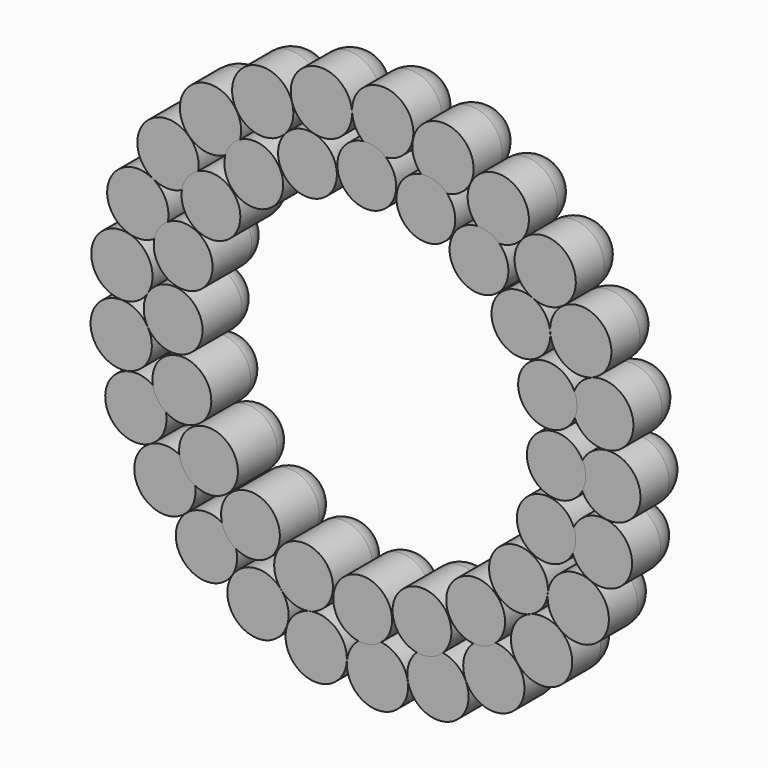
from build123d import *

# Parameters (mm, degrees)
F0_R     = 3.175
F1_DEPTH = 6.858
F2_COUNT = 25
F3_R     = 3.048
F4_DEPTH = 7.62
F5_COUNT = 20
F6_R     = 3.175
F6_2_R   = 3.175
F6_3_R   = 3.175
F6_4_R   = 3.175
F6_5_R   = 3.175
F6_6_R   = 3.175
F6_7_R   = 3.175
F6_8_R   = 3.175
F6_9_R   = 3.175
F6_10_R  = 3.175
F6_11_R  = 3.175
F6_12_R  = 3.175
F6_13_R  = 3.175
F6_14_R  = 3.175
F6_15_R  = 3.175
F6_16_R  = 3.175
F6_17_R  = 3.175
F6_18_R  = 3.175
F6_19_R  = 3.175
F6_20_R  = 3.175
F6_21_R  = 3.175
F6_22_R  = 3.175
F6_23_R  = 3.175
F6_24_R  = 3.175
F6_25_R  = 3.175
F7_R     = 2.54
F7_2_R   = 2.54
F7_3_R   = 2.54
F7_4_R   = 2.54
F7_5_R   = 2.54
F7_6_R   = 2.54
F7_7_R   = 2.54
F7_8_R   = 2.54
F7_9_R   = 2.54
F7_10_R  = 2.54
F7_11_R  = 2.54
F7_12_R  = 2.54
F7_13_R  = 2.54
F7_14_R  = 2.54
F7_15_R  = 2.54
F7_16_R  = 2.54
F7_17_R  = 2.54
F7_18_R  = 2.54
F7_19_R  = 2.54
F7_20_R  = 2.54


with BuildPart() as f1:
    # F0 (on Front) → F1 (new body)
    with BuildSketch(Plane.XZ):
        with Locations((-10.5681954611, 23.0970397388)):
            Circle(F0_R)
    extrude(amount=-F1_DEPTH)


with BuildPart() as f2_1:
    # F2: instance of F1
    add(f1.part.rotate(Axis((0, 0, 0), (0, 1, 0)), 1 * 360 / F2_COUNT))

    # F6#22
    f6_22_edges = [f2_1.edges().sort_by_distance(p)[0] for p in [
        (-7.567427, 6.858, 25.789197),
    ]]
    fillet(f6_22_edges, radius=F6_22_R)


with BuildPart() as f2_2:
    # F2: instance of F1
    add(f1.part.rotate(Axis((0, 0, 0), (0, 1, 0)), 2 * 360 / F2_COUNT))

    # F6#21
    f6_21_edges = [f2_2.edges().sort_by_distance(p)[0] for p in [
        (-0.91617, 6.858, 26.860925),
    ]]
    fillet(f6_21_edges, radius=F6_21_R)


with BuildPart() as f2_3:
    # F2: instance of F1
    add(f1.part.rotate(Axis((0, 0, 0), (0, 1, 0)), 3 * 360 / F2_COUNT))

    # F6#20
    f6_20_edges = [f2_3.edges().sort_by_distance(p)[0] for p in [
        (5.792653, 6.858, 26.244882),
    ]]
    fillet(f6_20_edges, radius=F6_20_R)


with BuildPart() as f2_4:
    # F2: instance of F1
    add(f1.part.rotate(Axis((0, 0, 0), (0, 1, 0)), 4 * 360 / F2_COUNT))

    # F6#19
    f6_19_edges = [f2_4.edges().sort_by_distance(p)[0] for p in [
        (12.137503, 6.858, 23.979776),
    ]]
    fillet(f6_19_edges, radius=F6_19_R)


with BuildPart() as f2_5:
    # F2: instance of F1
    add(f1.part.rotate(Axis((0, 0, 0), (0, 1, 0)), 5 * 360 / F2_COUNT))

    # F6#18
    f6_18_edges = [f2_5.edges().sort_by_distance(p)[0] for p in [
        (17.719709, 6.858, 20.207933),
    ]]
    fillet(f6_18_edges, radius=F6_18_R)


with BuildPart() as f2_6:
    # F2: instance of F1
    add(f1.part.rotate(Axis((0, 0, 0), (0, 1, 0)), 6 * 360 / F2_COUNT))

    # F6#4
    f6_4_edges = [f2_6.edges().sort_by_distance(p)[0] for p in [
        (22.188521, 6.858, 15.166352),
    ]]
    fillet(f6_4_edges, radius=F6_4_R)


with BuildPart() as f2_7:
    # F2: instance of F1
    add(f1.part.rotate(Axis((0, 0, 0), (0, 1, 0)), 7 * 360 / F2_COUNT))

    # F6#17
    f6_17_edges = [f2_7.edges().sort_by_distance(p)[0] for p in [
        (25.263146, 6.858, 9.171812),
    ]]
    fillet(f6_17_edges, radius=F6_17_R)


with BuildPart() as f2_8:
    # F2: instance of F1
    add(f1.part.rotate(Axis((0, 0, 0), (0, 1, 0)), 8 * 360 / F2_COUNT))

    # F6#16
    f6_16_edges = [f2_8.edges().sort_by_distance(p)[0] for p in [
        (26.750394, 6.858, 2.600974),
    ]]
    fillet(f6_16_edges, radius=F6_16_R)


with BuildPart() as f2_9:
    # F2: instance of F1
    add(f1.part.rotate(Axis((0, 0, 0), (0, 1, 0)), 9 * 360 / F2_COUNT))

    # F6#3
    f6_3_edges = [f2_9.edges().sort_by_distance(p)[0] for p in [
        (26.556817, 6.858, -4.133293),
    ]]
    fillet(f6_3_edges, radius=F6_3_R)


with BuildPart() as f2_10:
    # F2: instance of F1
    add(f1.part.rotate(Axis((0, 0, 0), (0, 1, 0)), 10 * 360 / F2_COUNT))

    # F6#2
    f6_2_edges = [f2_10.edges().sort_by_distance(p)[0] for p in [
        (24.694578, 6.858, -10.60785),
    ]]
    fillet(f6_2_edges, radius=F6_2_R)


with BuildPart() as f2_11:
    # F2: instance of F1
    add(f1.part.rotate(Axis((0, 0, 0), (0, 1, 0)), 11 * 360 / F2_COUNT))

    # F6
    f6_edges = [f2_11.edges().sort_by_distance(p)[0] for p in [
        (21.280687, 6.858, -16.415877),
    ]]
    fillet(f6_edges, radius=F6_R)


with BuildPart() as f2_12:
    # F2: instance of F1
    add(f1.part.rotate(Axis((0, 0, 0), (0, 1, 0)), 12 * 360 / F2_COUNT))

    # F6#6
    f6_6_edges = [f2_12.edges().sort_by_distance(p)[0] for p in [
        (16.529653, 6.858, -21.192434),
    ]]
    fillet(f6_6_edges, radius=F6_6_R)


with BuildPart() as f2_13:
    # F2: instance of F1
    add(f1.part.rotate(Axis((0, 0, 0), (0, 1, 0)), 13 * 360 / F2_COUNT))

    # F6#5
    f6_5_edges = [f2_13.edges().sort_by_distance(p)[0] for p in [
        (10.74, 6.858, -24.637392),
    ]]
    fillet(f6_5_edges, radius=F6_5_R)


with BuildPart() as f2_14:
    # F2: instance of F1
    add(f1.part.rotate(Axis((0, 0, 0), (0, 1, 0)), 14 * 360 / F2_COUNT))

    # F6#7
    f6_7_edges = [f2_14.edges().sort_by_distance(p)[0] for p in [
        (4.275513, 6.858, -26.534292),
    ]]
    fillet(f6_7_edges, radius=F6_7_R)


with BuildPart() as f2_15:
    # F2: instance of F1
    add(f1.part.rotate(Axis((0, 0, 0), (0, 1, 0)), 15 * 360 / F2_COUNT))

    # F6#8
    f6_8_edges = [f2_15.edges().sort_by_distance(p)[0] for p in [
        (-2.457621, 6.858, -26.763945),
    ]]
    fillet(f6_8_edges, radius=F6_8_R)


with BuildPart() as f2_16:
    # F2: instance of F1
    add(f1.part.rotate(Axis((0, 0, 0), (0, 1, 0)), 16 * 360 / F2_COUNT))

    # F6#9
    f6_9_edges = [f2_16.edges().sort_by_distance(p)[0] for p in [
        (-9.036333, 6.858, -25.311921),
    ]]
    fillet(f6_9_edges, radius=F6_9_R)


with BuildPart() as f2_17:
    # F2: instance of F1
    add(f1.part.rotate(Axis((0, 0, 0), (0, 1, 0)), 17 * 360 / F2_COUNT))

    # F6#10
    f6_10_edges = [f2_17.edges().sort_by_distance(p)[0] for p in [
        (-15.047258, 6.858, -22.269456),
    ]]
    fillet(f6_10_edges, radius=F6_10_R)


with BuildPart() as f2_18:
    # F2: instance of F1
    add(f1.part.rotate(Axis((0, 0, 0), (0, 1, 0)), 18 * 360 / F2_COUNT))

    # F6#11
    f6_11_edges = [f2_18.edges().sort_by_distance(p)[0] for p in [
        (-20.11271, 6.858, -17.827719),
    ]]
    fillet(f6_11_edges, radius=F6_11_R)


with BuildPart() as f2_19:
    # F2: instance of F1
    add(f1.part.rotate(Axis((0, 0, 0), (0, 1, 0)), 19 * 360 / F2_COUNT))

    # F6#12
    f6_12_edges = [f2_19.edges().sort_by_distance(p)[0] for p in [
        (-23.914405, 6.858, -12.265801),
    ]]
    fillet(f6_12_edges, radius=F6_12_R)


with BuildPart() as f2_20:
    # F2: instance of F1
    add(f1.part.rotate(Axis((0, 0, 0), (0, 1, 0)), 20 * 360 / F2_COUNT))

    # F6#13
    f6_13_edges = [f2_20.edges().sort_by_distance(p)[0] for p in [
        (-26.213471, 6.858, -5.933178),
    ]]
    fillet(f6_13_edges, radius=F6_13_R)


with BuildPart() as f2_21:
    # F2: instance of F1
    add(f1.part.rotate(Axis((0, 0, 0), (0, 1, 0)), 21 * 360 / F2_COUNT))

    # F6#14
    f6_14_edges = [f2_21.edges().sort_by_distance(p)[0] for p in [
        (-26.865448, 6.858, 0.772249),
    ]]
    fillet(f6_14_edges, radius=F6_14_R)


with BuildPart() as f2_22:
    # F2: instance of F1
    add(f1.part.rotate(Axis((0, 0, 0), (0, 1, 0)), 22 * 360 / F2_COUNT))

    # F6#15
    f6_15_edges = [f2_22.edges().sort_by_distance(p)[0] for p in [
        (-25.82937, 6.858, 7.429153),
    ]]
    fillet(f6_15_edges, radius=F6_15_R)


with BuildPart() as f2_23:
    # F2: instance of F1
    add(f1.part.rotate(Axis((0, 0, 0), (0, 1, 0)), 23 * 360 / F2_COUNT))

    # F6#25
    f6_25_edges = [f2_23.edges().sort_by_distance(p)[0] for p in [
        (-23.170338, 6.858, 13.619255),
    ]]
    fillet(f6_25_edges, radius=F6_25_R)


with BuildPart() as f2_24:
    # F2: instance of F1
    add(f1.part.rotate(Axis((0, 0, 0), (0, 1, 0)), 24 * 360 / F2_COUNT))

    # F6#24
    f6_24_edges = [f2_24.edges().sort_by_distance(p)[0] for p in [
        (-19.055428, 6.858, 18.95361),
    ]]
    fillet(f6_24_edges, radius=F6_24_R)


with BuildPart() as f4:
    # F3 (on Front) → F4 (new body)
    with BuildSketch(Plane.XZ):
        with Locations((-5.9323691306, 18.9455528686)):
            Circle(F3_R)
    extrude(amount=-F4_DEPTH)


with BuildPart() as f5_1:
    # F5: instance of F4
    add(f4.part.rotate(Axis((0, 0, 0), (0, -1, 0)), 1 * 360 / F5_COUNT))

    # F7#15
    f7_15_edges = [f5_1.edges().sort_by_distance(p)[0] for p in [
        (-14.395336, 7.62, 15.243205),
    ]]
    fillet(f7_15_edges, radius=F7_15_R)


with BuildPart() as f5_2:
    # F5: instance of F4
    add(f4.part.rotate(Axis((0, 0, 0), (0, -1, 0)), 2 * 360 / F5_COUNT))

    # F7#14
    f7_14_edges = [f5_2.edges().sort_by_distance(p)[0] for p in [
        (-18.401188, 7.62, 10.048746),
    ]]
    fillet(f7_14_edges, radius=F7_14_R)


with BuildPart() as f5_3:
    # F5: instance of F4
    add(f4.part.rotate(Axis((0, 0, 0), (0, -1, 0)), 3 * 360 / F5_COUNT))

    # F7#13
    f7_13_edges = [f5_3.edges().sort_by_distance(p)[0] for p in [
        (-20.605803, 7.62, 3.870645),
    ]]
    fillet(f7_13_edges, radius=F7_13_R)


with BuildPart() as f5_4:
    # F5: instance of F4
    add(f4.part.rotate(Axis((0, 0, 0), (0, -1, 0)), 4 * 360 / F5_COUNT))

    # F7#12
    f7_12_edges = [f5_4.edges().sort_by_distance(p)[0] for p in [
        (-20.793378, 7.62, -2.686341),
    ]]
    fillet(f7_12_edges, radius=F7_12_R)


with BuildPart() as f5_5:
    # F5: instance of F4
    add(f4.part.rotate(Axis((0, 0, 0), (0, -1, 0)), 5 * 360 / F5_COUNT))

    # F7#11
    f7_11_edges = [f5_5.edges().sort_by_distance(p)[0] for p in [
        (-18.945553, 7.62, -8.980369),
    ]]
    fillet(f7_11_edges, radius=F7_11_R)


with BuildPart() as f5_6:
    # F5: instance of F4
    add(f4.part.rotate(Axis((0, 0, 0), (0, -1, 0)), 6 * 360 / F5_COUNT))

    # F7#10
    f7_10_edges = [f5_6.edges().sort_by_distance(p)[0] for p in [
        (-15.243205, 7.62, -14.395336),
    ]]
    fillet(f7_10_edges, radius=F7_10_R)


with BuildPart() as f5_7:
    # F5: instance of F4
    add(f4.part.rotate(Axis((0, 0, 0), (0, -1, 0)), 7 * 360 / F5_COUNT))

    # F7#9
    f7_9_edges = [f5_7.edges().sort_by_distance(p)[0] for p in [
        (-10.048746, 7.62, -18.401188),
    ]]
    fillet(f7_9_edges, radius=F7_9_R)


with BuildPart() as f5_8:
    # F5: instance of F4
    add(f4.part.rotate(Axis((0, 0, 0), (0, -1, 0)), 8 * 360 / F5_COUNT))

    # F7#8
    f7_8_edges = [f5_8.edges().sort_by_distance(p)[0] for p in [
        (-3.870645, 7.62, -20.605803),
    ]]
    fillet(f7_8_edges, radius=F7_8_R)


with BuildPart() as f5_9:
    # F5: instance of F4
    add(f4.part.rotate(Axis((0, 0, 0), (0, -1, 0)), 9 * 360 / F5_COUNT))

    # F7#7
    f7_7_edges = [f5_9.edges().sort_by_distance(p)[0] for p in [
        (2.686341, 7.62, -20.793378),
    ]]
    fillet(f7_7_edges, radius=F7_7_R)


with BuildPart() as f5_10:
    # F5: instance of F4
    add(f4.part.rotate(Axis((0, 0, 0), (0, -1, 0)), 10 * 360 / F5_COUNT))

    # F7#6
    f7_6_edges = [f5_10.edges().sort_by_distance(p)[0] for p in [
        (8.980369, 7.62, -18.945553),
    ]]
    fillet(f7_6_edges, radius=F7_6_R)


with BuildPart() as f5_11:
    # F5: instance of F4
    add(f4.part.rotate(Axis((0, 0, 0), (0, -1, 0)), 11 * 360 / F5_COUNT))

    # F7#2
    f7_2_edges = [f5_11.edges().sort_by_distance(p)[0] for p in [
        (14.395336, 7.62, -15.243205),
    ]]
    fillet(f7_2_edges, radius=F7_2_R)


with BuildPart() as f5_12:
    # F5: instance of F4
    add(f4.part.rotate(Axis((0, 0, 0), (0, -1, 0)), 12 * 360 / F5_COUNT))

    # F7#5
    f7_5_edges = [f5_12.edges().sort_by_distance(p)[0] for p in [
        (18.401188, 7.62, -10.048746),
    ]]
    fillet(f7_5_edges, radius=F7_5_R)


with BuildPart() as f5_13:
    # F5: instance of F4
    add(f4.part.rotate(Axis((0, 0, 0), (0, -1, 0)), 13 * 360 / F5_COUNT))

    # F7#4
    f7_4_edges = [f5_13.edges().sort_by_distance(p)[0] for p in [
        (20.605803, 7.62, -3.870645),
    ]]
    fillet(f7_4_edges, radius=F7_4_R)


with BuildPart() as f5_14:
    # F5: instance of F4
    add(f4.part.rotate(Axis((0, 0, 0), (0, -1, 0)), 14 * 360 / F5_COUNT))

    # F7#3
    f7_3_edges = [f5_14.edges().sort_by_distance(p)[0] for p in [
        (20.793378, 7.62, 2.686341),
    ]]
    fillet(f7_3_edges, radius=F7_3_R)


with BuildPart() as f5_15:
    # F5: instance of F4
    add(f4.part.rotate(Axis((0, 0, 0), (0, -1, 0)), 15 * 360 / F5_COUNT))

    # F7
    f7_edges = [f5_15.edges().sort_by_distance(p)[0] for p in [
        (18.945553, 7.62, 8.980369),
    ]]
    fillet(f7_edges, radius=F7_R)


with BuildPart() as f5_16:
    # F5: instance of F4
    add(f4.part.rotate(Axis((0, 0, 0), (0, -1, 0)), 16 * 360 / F5_COUNT))

    # F7#20
    f7_20_edges = [f5_16.edges().sort_by_distance(p)[0] for p in [
        (15.243205, 7.62, 14.395336),
    ]]
    fillet(f7_20_edges, radius=F7_20_R)


with BuildPart() as f5_17:
    # F5: instance of F4
    add(f4.part.rotate(Axis((0, 0, 0), (0, -1, 0)), 17 * 360 / F5_COUNT))

    # F7#19
    f7_19_edges = [f5_17.edges().sort_by_distance(p)[0] for p in [
        (10.048746, 7.62, 18.401188),
    ]]
    fillet(f7_19_edges, radius=F7_19_R)


with BuildPart() as f5_18:
    # F5: instance of F4
    add(f4.part.rotate(Axis((0, 0, 0), (0, -1, 0)), 18 * 360 / F5_COUNT))

    # F7#18
    f7_18_edges = [f5_18.edges().sort_by_distance(p)[0] for p in [
        (3.870645, 7.62, 20.605803),
    ]]
    fillet(f7_18_edges, radius=F7_18_R)


with BuildPart() as f5_19:
    # F5: instance of F4
    add(f4.part.rotate(Axis((0, 0, 0), (0, -1, 0)), 19 * 360 / F5_COUNT))

    # F7#17
    f7_17_edges = [f5_19.edges().sort_by_distance(p)[0] for p in [
        (-2.686341, 7.62, 20.793378),
    ]]
    fillet(f7_17_edges, radius=F7_17_R)


with BuildPart() as f1_1:
    add(f1.part)

    # F6#23
    f6_23_edges = [f1_1.edges().sort_by_distance(p)[0] for p in [
        (-13.743195, 6.858, 23.09704),
    ]]
    fillet(f6_23_edges, radius=F6_23_R)


with BuildPart() as f4_1:
    add(f4.part)

    # F7#16
    f7_16_edges = [f4_1.edges().sort_by_distance(p)[0] for p in [
        (-8.980369, 7.62, 18.945553),
    ]]
    fillet(f7_16_edges, radius=F7_16_R)


solid = Compound([f2_1.part, f2_2.part, f2_3.part, f2_4.part, f2_5.part, f2_6.part, f2_7.part, f2_8.part, f2_9.part, f2_10.part, f2_11.part, f2_12.part, f2_13.part, f2_14.part, f2_15.part, f2_16.part, f2_17.part, f2_18.part, f2_19.part, f2_20.part, f2_21.part, f2_22.part, f2_23.part, f2_24.part, f5_1.part, f5_2.part, f5_3.part, f5_4.part, f5_5.part, f5_6.part, f5_7.part, f5_8.part, f5_9.part, f5_10.part, f5_11.part, f5_12.part, f5_13.part, f5_14.part, f5_15.part, f5_16.part, f5_17.part, f5_18.part, f5_19.part, f1_1.part, f4_1.part])
